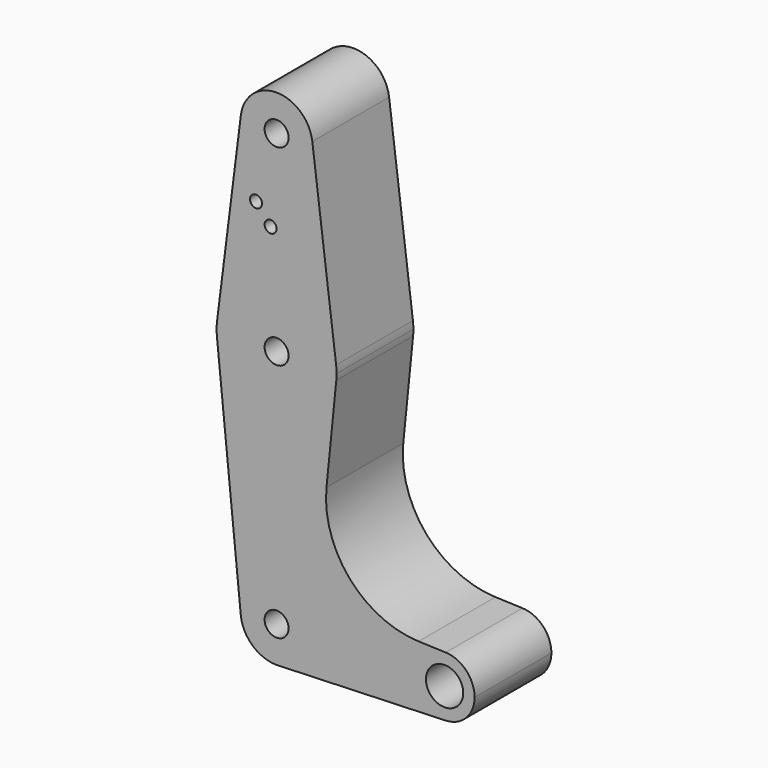
from build123d import *

# Parameters (mm, degrees)
F0_R     = 4.930802
F0_R_2   = 3.175
F0_R_3   = 1.5875
F1_DEPTH = 25.4


with BuildPart() as f1:
    # F0 (on Front) → F1 (new body)
    with BuildSketch(Plane.XZ):
        with BuildLine():
            ThreePointArc((44.732405, -7.932475), (50.161633, -5.51191), (52.3875, 0))
            ThreePointArc((52.3875, 0), (50.161633, 5.51191), (44.732405, 7.932475))
            ThreePointArc((44.732405, 7.932475), (36.5125, 0), (44.732405, -7.932475))
        make_face()
        with Locations((44.45, 0)):
            Circle(F0_R, mode=Mode.SUBTRACT)
        with BuildLine():
            ThreePointArc((44.732405, -7.932475), (36.5125, 0), (44.732405, 7.932475))
            Line((44.732405, 7.932475), (37.571295, 8.187418))
            ThreePointArc((37.571295, 8.187418), (19.337673, 16.870349), (13.202311, 36.111337))
            Line((13.202311, 36.111337), (15.795426, 61.9125))
            ThreePointArc((15.795426, 61.9125), (0, 47.625), (-15.795426, 61.9125))
            Line((-15.795426, 61.9125), (-9.477255, -0.9525))
            ThreePointArc((-9.477255, -0.9525), (-0.476848, 9.513056), (9.525, 0))
            ThreePointArc((9.525, 0), (6.970557, -6.491299), (0.677344, -9.500886))
            Line((0.677344, -9.500886), (44.732405, -7.932475))
        make_face()
        with BuildLine():
            Line((0, -9.525), (0.677344, -9.500886))
            ThreePointArc((0.677344, -9.500886), (6.970557, -6.491299), (9.525, 0))
            ThreePointArc((9.525, 0), (-0.476848, 9.513056), (-9.477255, -0.9525))
            ThreePointArc((-9.477255, -0.9525), (-6.389564, -7.063929), (0, -9.525))
        make_face()
        Circle(F0_R_2, mode=Mode.SUBTRACT)
        with BuildLine():
            ThreePointArc((0, -9.525), (0.338886, -9.51897), (0.677344, -9.500886))
            Line((0.677344, -9.500886), (0, -9.525))
        make_face()
        with BuildLine():
            ThreePointArc((-15.795426, 61.9125), (0, 47.625), (15.795426, 61.9125))
            ThreePointArc((15.795426, 61.9125), (15.855094, 62.705253), (15.875, 63.5))
            ThreePointArc((15.875, 63.5), (15.843841, 64.494139), (15.750488, 65.484375))
            ThreePointArc((15.750488, 65.484375), (0, 79.375), (-15.750488, 65.484375))
            ThreePointArc((-15.750488, 65.484375), (-15.873744, 63.699705), (-15.795426, 61.9125))
        make_face()
        with Locations((0, 63.5)):
            Circle(F0_R_2, mode=Mode.SUBTRACT)
        with BuildLine():
            Line((-9.450293, 115.490625), (-15.750488, 65.484375))
            ThreePointArc((-15.750488, 65.484375), (0, 79.375), (15.750488, 65.484375))
            Line((15.750488, 65.484375), (9.450293, 115.490625))
            ThreePointArc((9.450293, 115.490625), (9.506305, 114.896483), (9.525, 114.3))
            ThreePointArc((9.525, 114.3), (-0.596483, 104.793695), (-9.450293, 115.490625))
        make_face()
        with Locations((-5.446046, 96.680015)):
            Circle(F0_R_3, mode=Mode.SUBTRACT)
        with Locations((-1.5875, 92.054672)):
            Circle(F0_R_3, mode=Mode.SUBTRACT)
        with BuildLine():
            ThreePointArc((9.450293, 115.490625), (0, 123.825), (-9.450293, 115.490625))
            ThreePointArc((-9.450293, 115.490625), (-0.596483, 104.793695), (9.525, 114.3))
            ThreePointArc((9.525, 114.3), (9.506305, 114.896483), (9.450293, 115.490625))
        make_face()
        with Locations((0, 114.3)):
            Circle(F0_R_2, mode=Mode.SUBTRACT)
    extrude(amount=F1_DEPTH)


solid = f1.part
